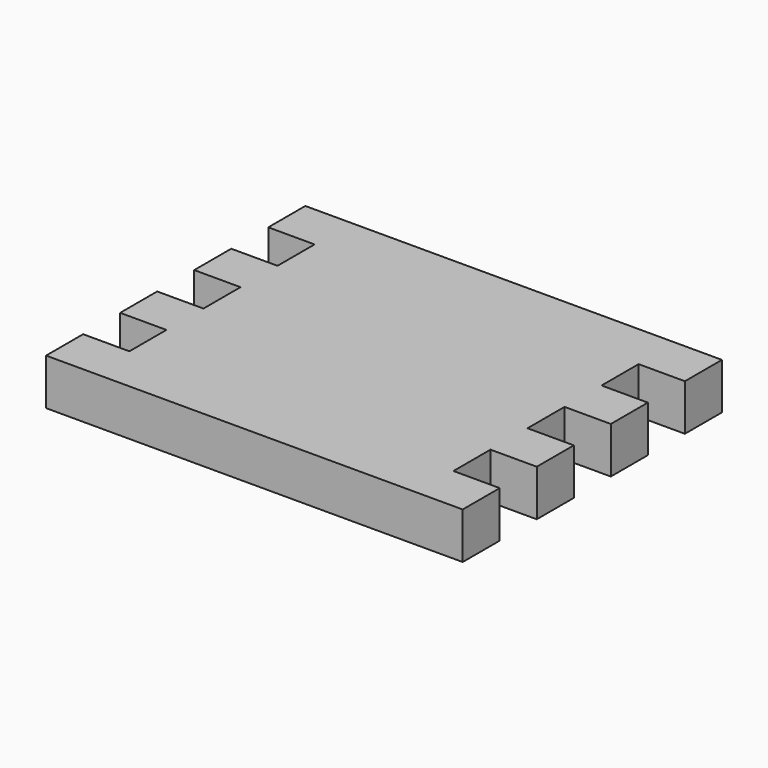
from build123d import *

# Parameters (mm, degrees)
F1_DEPTH = 10


with BuildPart() as f1:
    # F0 (on Top) → F1 (new body)
    with BuildSketch(Plane.XY):
        Polygon((0, -45), (45, -45), (45, -35), (35, -35), (35, -25), (45, -25), (45, -15), (35, -15), (35, -5), (45, -5), (45, 5), (35, 5), (35, 15), (45, 15), (45, 25), (35, 25), (-35, 25), (-45, 25), (-45, 15), (-35, 15), (-35, 5), (-45, 5), (-45, -5), (-35, -5), (-35, -15), (-45, -15), (-45, -25), (-35, -25), (-35, -35), (-45, -35), (-45, -45), align=None)
    extrude(amount=F1_DEPTH)


solid = f1.part
